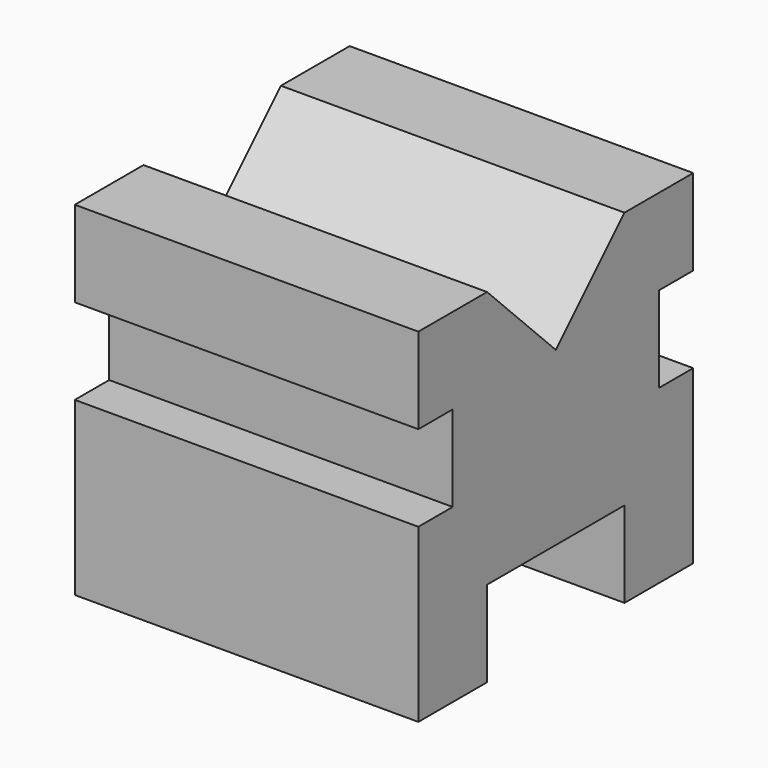
from build123d import *

# Parameters (mm, degrees)
F1_DEPTH = 101.6


with BuildPart() as f1:
    # F0 (on Right) → F1 (new body)
    with BuildSketch(Plane.YZ):
        Polygon((-25.4, 0), (0, 0), (0, 50.8), (-12.7, 50.8), (-12.7, 76.2), (0, 76.2), (0, 101.6), (-25.4, 101.6), (-50.8, 76.2), (-76.2, 101.6), (-101.6, 101.6), (-101.6, 76.2), (-88.9, 76.2), (-88.9, 50.8), (-101.6, 50.8), (-101.6, 0), (-76.2, 0), (-76.2, 25.4), (-25.4, 25.4), align=None)
    extrude(amount=-F1_DEPTH)


solid = f1.part
